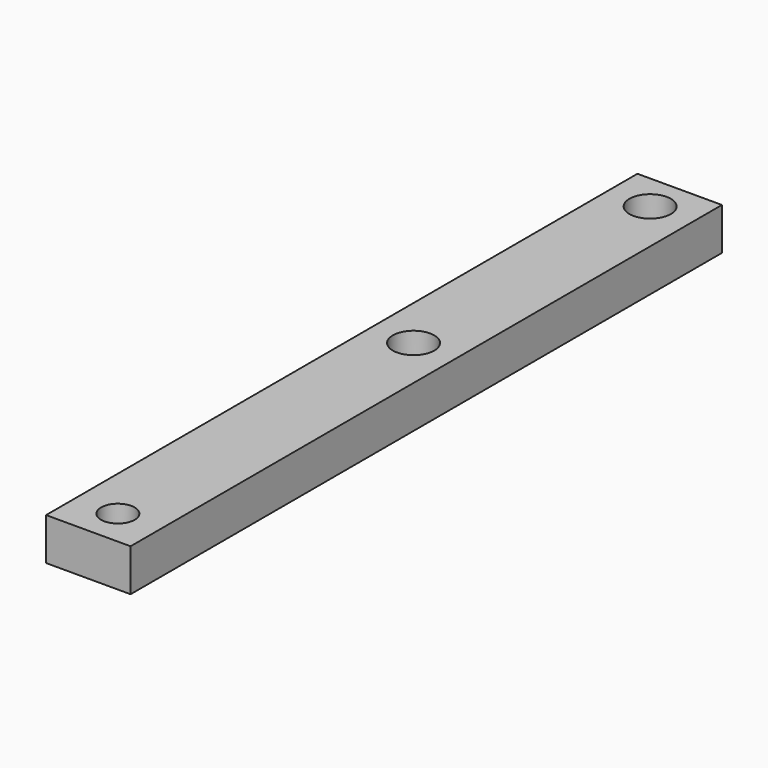
from build123d import *

# Parameters (mm, degrees)
F0_W     = 10.16
F0_H     = 88.9
F0_R     = 2.0193
F0_R_2   = 2.4892
F1_DEPTH = 5.08


with BuildPart() as f1:
    # F0 (on Top) → F1 (new body)
    with BuildSketch(Plane.XY):
        with Locations((5.08, 44.45)):
            Rectangle(F0_W, F0_H)
        with Locations((5.08, 4.445)):
            Circle(F0_R, mode=Mode.SUBTRACT)
        with Locations((5.08, 48.895)):
            Circle(F0_R_2, mode=Mode.SUBTRACT)
        with Locations((5.08, 84.455)):
            Circle(F0_R_2, mode=Mode.SUBTRACT)
    extrude(amount=F1_DEPTH)


solid = f1.part
